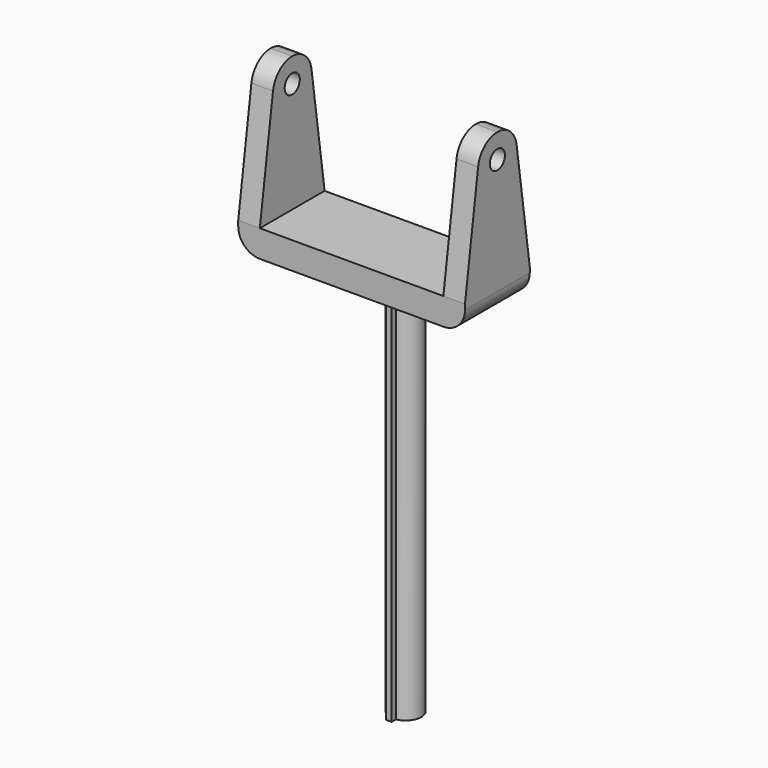
from build123d import *

# Parameters (mm, degrees)
F0_R      = 2.9
F1_DEPTH  = 70
F2_W      = 42
F2_H      = 15
F3_DEPTH  = 5
F4_W      = 4
F4_H      = 15
F5_DEPTH  = 25
F6_R      = 1.75
F7_DEPTH  = 50
F8_R      = 4
F10_DEPTH = 70


with BuildPart() as f1:
    # F0 (on Top) → F1 (new body)
    with BuildSketch(Plane.XY):
        Circle(F0_R)
    extrude(amount=F1_DEPTH)

    # F2 (on face) → F3 (join)
    with BuildSketch(Plane.XY.offset(70)):
        with Locations((-4, 0)):
            Rectangle(F2_W, F2_H)
    extrude(amount=F3_DEPTH)

    # F4 (on face) → F5 (join)
    with BuildSketch(Plane.XY.offset(75)):
        with Locations((-23, 0)):
            Rectangle(F4_W, F4_H)
        with Locations((15, 0)):
            Rectangle(F4_W, F4_H)
    extrude(amount=F5_DEPTH)

    # F6 (on face) → F7 (cut)
    with BuildSketch(Plane.YZ.offset(17)):
        with BuildLine():
            Line((-7.5, 75), (-4.45401, 96.141711))
            ThreePointArc((-4.45401, 96.141711), (-2.946379, 98.901301), (0, 100))
            Line((0, 100), (-7.5, 100))
            Line((-7.5, 100), (-7.5, 75))
        make_face()
        with Locations((0, 95.5)):
            Circle(F6_R)
        with BuildLine():
            Line((7.5, 100), (0, 100))
            ThreePointArc((0, 100), (2.946379, 98.901301), (4.45401, 96.141711))
            Line((4.45401, 96.141711), (7.5, 75))
            Line((7.5, 75), (7.5, 100))
        make_face()
    extrude(amount=-F7_DEPTH, mode=Mode.SUBTRACT)

    # F8
    f8_edges = [f1.edges().sort_by_distance(p)[0] for p in [
        (-25, 0, 70),
        (17, 0, 70),
    ]]
    fillet(f8_edges, radius=F8_R)

    # F9 (on face) → F10 (join)
    with BuildSketch(Plane(origin=(0, 0, 70), x_dir=(1, 0, 0), z_dir=(0, 0, -1))):
        with BuildLine():
            ThreePointArc((-0.5, 2.856571), (-1.865476, -2.22036), (2.9, 0))
            ThreePointArc((2.9, 0), (2.22036, 1.865476), (0.5, 2.856571))
            ThreePointArc((0.5, 2.856571), (0, 2.9), (-0.5, 2.856571))
        make_face()
        with BuildLine():
            ThreePointArc((-0.5, 2.856571), (0, 2.9), (0.5, 2.856571))
            Line((0.5, 2.856571), (0.5, 3.856571))
            Line((0.5, 3.856571), (-0.5, 3.856571))
            Line((-0.5, 3.856571), (-0.5, 2.856571))
        make_face()
    extrude(amount=F10_DEPTH)


solid = f1.part
